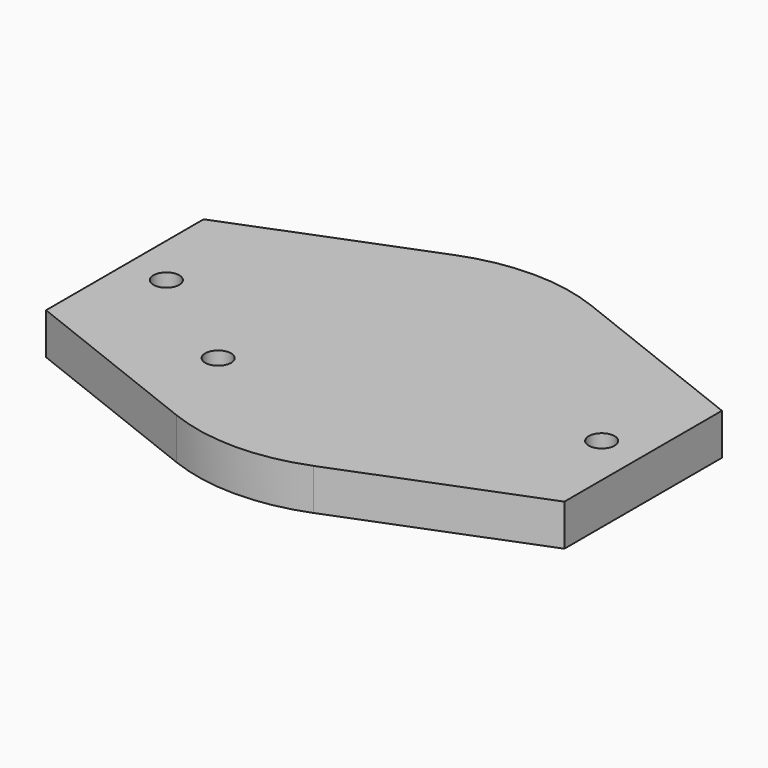
from build123d import *

# Parameters (mm, degrees)
SKETCH002_R      = 9
EXTRUDE002_DEPTH = 2
SKETCH001_W      = 35
SKETCH001_H      = 40
EXTRUDE001_DEPTH = 6
SKETCH_R         = 2.5
EXTRUDE_DEPTH    = 8


with BuildPart() as extrude002:
    # Sketch002 (on Sketch) → Extrude002 (new body)
    with BuildSketch(Plane.XY):
        with Locations((-39, -12)):
            Circle(SKETCH002_R)
        with Locations((39, -12)):
            Circle(SKETCH002_R)
    extrude(amount=EXTRUDE002_DEPTH)


with BuildPart() as extrude_handle_notch:
    # Sketch001 → Extrude001 (new body)
    with BuildSketch(Plane.XY):
        with Locations((0, 20)):
            Rectangle(SKETCH001_W, SKETCH001_H)
    extrude(amount=EXTRUDE001_DEPTH)


with BuildPart() as cut001:
    # Sketch → Extrude (new body)
    with BuildSketch(Plane.XY):
        with BuildLine():
            Line((-50, 19), (-50, -19))
            Line((-50, -19), (-13.191508, -33.496031))
            ThreePointArc((-13.191508, -33.496031), (0, -36), (13.191508, -33.496031))
            Line((50, -19), (13.191508, -33.496031))
            Line((50, 19), (50, -19))
            Line((50, 19), (13.191508, 33.496031))
            ThreePointArc((13.191508, 33.496031), (0, 36), (-13.191508, 33.496031))
            Line((-50, 19), (-13.191508, 33.496031))
        make_face()
        with Locations((-42, 0)):
            Circle(SKETCH_R, mode=Mode.SUBTRACT)
        with Locations((42, 0)):
            Circle(SKETCH_R, mode=Mode.SUBTRACT)
        with Locations((-20, -15)):
            Circle(SKETCH_R, mode=Mode.SUBTRACT)
    extrude(amount=EXTRUDE_DEPTH)

    # Cut: cut Extrude Handle Notch
    add(extrude_handle_notch.part, mode=Mode.SUBTRACT)

    # Cut001: cut Extrude002
    add(extrude002.part, mode=Mode.SUBTRACT)


solid = cut001.part
